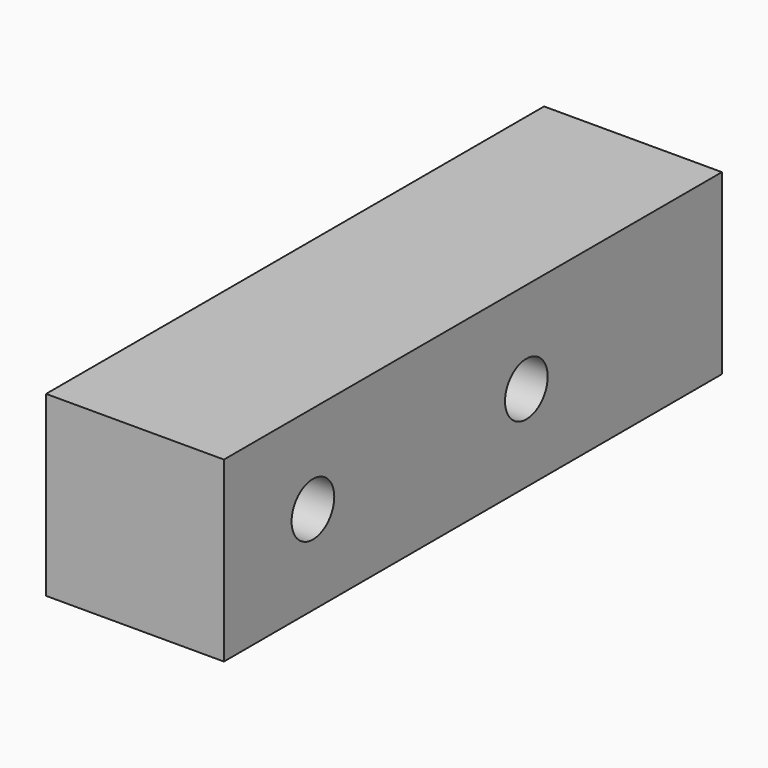
from build123d import *

# Parameters (mm, degrees)
F0_W     = 10
F0_H     = 10
F1_DEPTH = 35
F2_R     = 1.5
F3_DEPTH = 12


with BuildPart() as f1:
    # F0 (on Front) → F1 (new body)
    with BuildSketch(Plane.XZ):
        with Locations((-5, 5)):
            Rectangle(F0_W, F0_H)
    extrude(amount=F1_DEPTH)

    # F2 (on face) → F3 (cut)
    with BuildSketch(Plane.YZ):
        with Locations((-28.746059, 5)):
            Circle(F2_R)
        with Locations((-13.746059, 4.852584)):
            Circle(F2_R)
    extrude(amount=-F3_DEPTH, mode=Mode.SUBTRACT)


solid = f1.part
